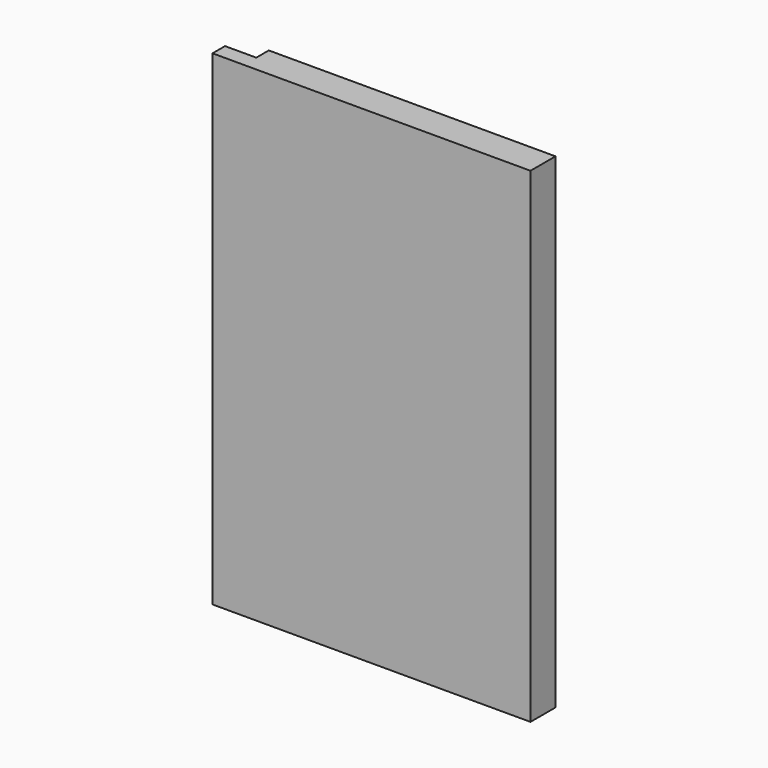
from build123d import *

# Parameters (mm, degrees)
F1_DEPTH = 116.35


with BuildPart() as f1:
    # F0 (on Top) → F1 (new body, symmetric)
    with BuildSketch(Plane.XY):
        Polygon((-178.6730651801, -4.2552597793), (-33.6730651801, -4.2552597793), (-26.1730651801, -4.2552597793), (-26.1730651801, 10.7447402207), (-33.6730651801, 10.7447402207), (-163.6730651801, 10.7447402207), (-163.6730651801, 3.2447402207), (-178.6730651801, 3.2447402207), align=None)
    extrude(amount=F1_DEPTH, both=True)


solid = f1.part
